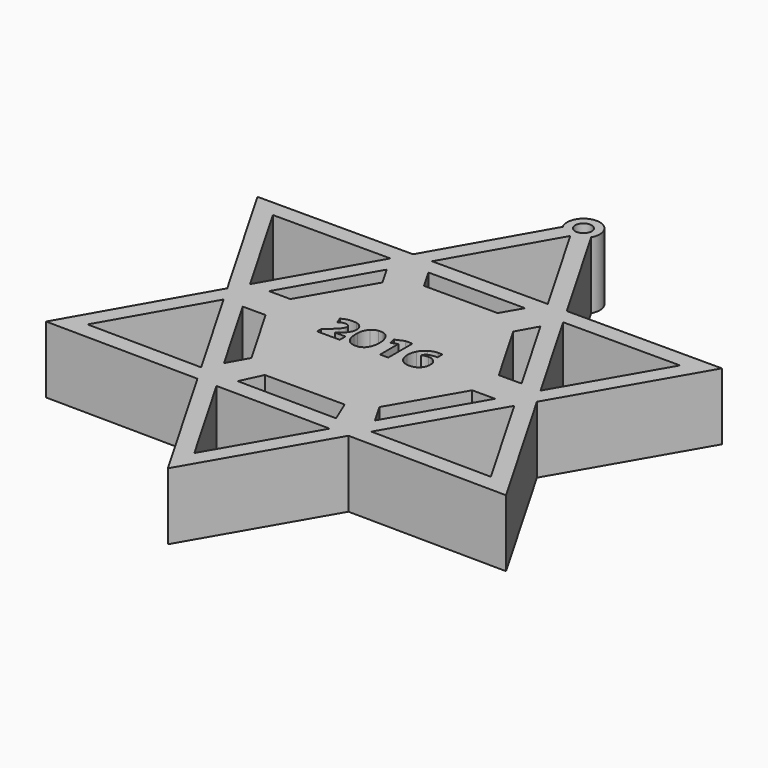
from build123d import *

# Parameters (mm, degrees)
F0_R     = 1.092901
F1_DEPTH = 8.89


with BuildPart() as f1:
    # F0 (on Top) → F1 (new body)
    with BuildSketch(Plane.XY):
        with BuildLine():
            Line((-10.186511, 17.824513), (-30.872961, 17.824513))
            Line((-30.872961, 17.824513), (-20.463953, -0.204419))
            Line((-20.463953, -0.204419), (-30.484094, -17.781989))
            Line((-30.484094, -17.781989), (-10.188458, -18.002097))
            Line((-10.188458, -18.002097), (0, -35.649025))
            Line((0, -35.649025), (10.061664, -18.221712))
            Line((10.061664, -18.221712), (31.196423, -18.450921))
            Line((31.196423, -18.450921), (20.562876, -0.033079))
            Line((20.562876, -0.033079), (30.872961, 17.824513))
            Line((30.872961, 17.824513), (10.252791, 17.824513))
            Line((10.252791, 17.824513), (1.863466, 32.35525))
            ThreePointArc((1.863466, 32.35525), (1.860641, 34.526342), (-0.018168, 35.614335))
            ThreePointArc((-0.018168, 35.614335), (-0.0318, 35.614328), (-0.045431, 35.614235))
            ThreePointArc((-0.045431, 35.614235), (-1.914248, 34.515979), (-1.907155, 32.348355))
            Line((-1.907155, 32.348355), (-10.186511, 17.824513))
        make_face()
        Polygon((-7.632454, -18.029818), (7.537469, -18.194337), (0, -31.249616), align=None, mode=Mode.SUBTRACT)
        Polygon((-11.478418, -15.767821), (-26.717751, -15.602549), (-19.193953, -2.404124), align=None, mode=Mode.SUBTRACT)
        Polygon((6.609826, -15.96399), (-6.587783, -15.820861), (-5.245977, -12.983611), (5.37023, -12.983611), align=None, mode=Mode.SUBTRACT)
        Polygon((-10.226373, -13.537018), (-16.653953, -2.404124), (-13.604161, -2.404124), (-8.723036, -10.85848), align=None, mode=Mode.SUBTRACT)
        Polygon((13.711111, -2.218881), (16.760902, -2.218881), (10.064189, -13.817929), (8.537635, -11.179605), align=None, mode=Mode.SUBTRACT)
        Polygon((11.33557, -16.015242), (19.300902, -2.218881), (27.366612, -16.1891), align=None, mode=Mode.SUBTRACT)
        Polygon((-19.20203, 2.009275), (-27.062961, 15.624808), (-11.440459, 15.624808), align=None, mode=Mode.SUBTRACT)
        Polygon((-13.832127, 2.009275), (-16.678082, 2.009275), (-10.170459, 13.425103), (-8.705827, 10.888287), align=None, mode=Mode.SUBTRACT)
        with BuildLine():
            Line((-6.75627, 0.938559), (-7.088266, 1.774853))
            ThreePointArc((-7.088266, 1.774853), (-6.149591, 2.138201), (-5.143329, 2.114348))
            ThreePointArc((-5.143329, 2.114348), (-4.684085, 1.931017), (-4.344395, 1.571676))
            ThreePointArc((-4.344395, 1.571676), (-4.154791, 0.893336), (-4.344395, 0.214996))
            ThreePointArc((-4.344395, 0.214996), (-4.846257, -0.463524), (-5.50511, -0.990941))
            Line((-5.50511, -0.990941), (-4.118282, -0.990941))
            Line((-4.118282, -0.990941), (-4.118282, -1.940617))
            Line((-4.118282, -1.940617), (-7.133126, -1.940617))
            Line((-7.133126, -1.940617), (-7.133126, -1.262277))
            ThreePointArc((-7.133126, -1.262277), (-6.428669, -0.65133), (-5.761372, 0))
            ThreePointArc((-5.761372, 0), (-5.521749, 0.287364), (-5.354368, 0.622))
            ThreePointArc((-5.354368, 0.622), (-5.409921, 1.056041), (-5.79152, 1.270191))
            ThreePointArc((-5.79152, 1.270191), (-6.315562, 1.225589), (-6.75627, 0.938559))
        make_face(mode=Mode.SUBTRACT)
        with BuildLine():
            ThreePointArc((-3.600539, 0.402436), (-3.456783, 1.145183), (-3.035859, 1.773803))
            ThreePointArc((-3.035859, 1.773803), (-2.669777, 2.034358), (-2.238135, 2.159219))
            ThreePointArc((-2.238135, 2.159219), (-1.951313, 2.178043), (-1.664491, 2.159219))
            ThreePointArc((-1.664491, 2.159219), (-1.180923, 1.946357), (-0.821952, 1.558686))
            ThreePointArc((-0.821952, 1.558686), (-0.52188, 0.80677), (-0.454462, 0))
            ThreePointArc((-0.454462, 0), (-0.581823, -0.858949), (-1.010179, -1.614281))
            ThreePointArc((-1.010179, -1.614281), (-1.43468, -1.87918), (-1.924424, -1.981771))
            ThreePointArc((-1.924424, -1.981771), (-2.520232, -1.899523), (-3.044822, -1.605318))
            ThreePointArc((-3.044822, -1.605318), (-3.443663, -0.96578), (-3.582613, -0.224987))
            ThreePointArc((-3.582613, -0.224987), (-3.602765, 0.088404), (-3.600539, 0.402436))
        make_face(mode=Mode.SUBTRACT)
        Polygon((-4.867668, 12.983611), (-6.392563, 15.624808), (6.461138, 15.624808), (4.938996, 12.983611), align=None, mode=Mode.SUBTRACT)
        Polygon((-7.662563, 17.824513), (-0.015805, 31.238637), (7.728844, 17.824513), align=None, mode=Mode.SUBTRACT)
        with Locations((-0.023831, 33.438342)):
            Circle(F0_R, mode=Mode.SUBTRACT)
        Polygon((0.406004, 0.787853), (0.235703, 1.612465), (1.382991, 2.10544), (2.315162, 2.10544), (2.315162, -1.919029), (1.221654, -1.919029), (1.221654, 1.11949), align=None, mode=Mode.SUBTRACT)
        with BuildLine():
            ThreePointArc((6.263092, 1.305151), (5.667589, 1.281478), (5.09484, 1.116724))
            ThreePointArc((5.09484, 1.116724), (4.817232, 0.89738), (4.657688, 0.581589))
            ThreePointArc((4.657688, 0.581589), (5.038025, 0.762238), (5.456621, 0.807702))
            ThreePointArc((5.456621, 0.807702), (5.84702, 0.774991), (6.187721, 0.581589))
            ThreePointArc((6.187721, 0.581589), (6.553589, 0.245128), (6.715319, -0.224882))
            ThreePointArc((6.715319, -0.224882), (6.710022, -0.667762), (6.609799, -1.099186))
            ThreePointArc((6.609799, -1.099186), (6.363355, -1.487281), (6.00683, -1.777526))
            ThreePointArc((6.00683, -1.777526), (5.523997, -1.951951), (5.011932, -1.988565))
            ThreePointArc((5.011932, -1.988565), (4.415764, -1.838341), (3.919051, -1.476042))
            ThreePointArc((3.919051, -1.476042), (3.611747, -0.926696), (3.496973, -0.30779))
            ThreePointArc((3.496973, -0.30779), (3.537223, 0.33579), (3.753235, 0.94337))
            ThreePointArc((3.753235, 0.94337), (4.096734, 1.436393), (4.567243, 1.810138))
            ThreePointArc((4.567243, 1.810138), (5.106743, 2.061392), (5.694663, 2.153803))
            ThreePointArc((5.694663, 2.153803), (5.728652, 2.154074), (5.762642, 2.153803))
            Line((5.762642, 2.153803), (6.268268, 2.153803))
            Line((6.268268, 2.153803), (6.263092, 1.305151))
        make_face(mode=Mode.SUBTRACT)
        Polygon((8.786237, 10.749013), (10.278659, 13.408103), (16.768929, 2.166626), (13.74128, 2.166626), align=None, mode=Mode.SUBTRACT)
        Polygon((11.522791, 15.624808), (27.062961, 15.624808), (19.292876, 2.166626), align=None, mode=Mode.SUBTRACT)
    extrude(amount=F1_DEPTH)


solid = f1.part
